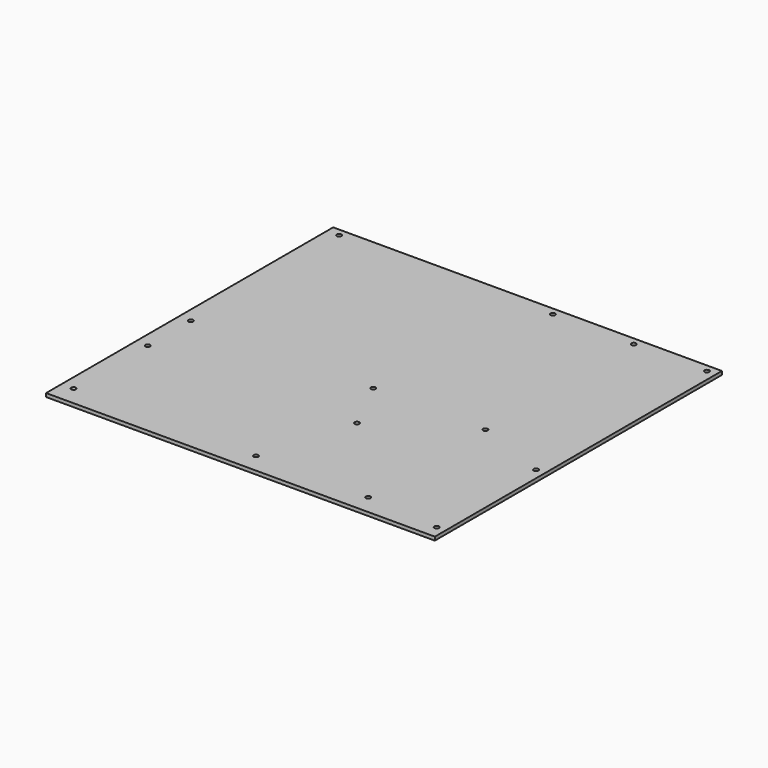
from build123d import *

# Parameters (mm, degrees)
F0_W     = 330.2
F0_H     = 304.8
F0_R     = 1.9812
F0_R_2   = 1.981
F1_DEPTH = 3


with BuildPart() as f1:
    # F0 (on Top) → F1 (new body)
    with BuildSketch(Plane.XY):
        with Locations((0, 4.9992)):
            Rectangle(F0_W, F0_H)
        with Locations((-154.9, -130.9008)):
            Circle(F0_R, mode=Mode.SUBTRACT)
        with Locations((-154.9, -52.2008)):
            Circle(F0_R_2, mode=Mode.SUBTRACT)
        with Locations((-154.9, -6.4008)):
            Circle(F0_R_2, mode=Mode.SUBTRACT)
        with Locations((0, -130.9008)):
            Circle(F0_R_2, mode=Mode.SUBTRACT)
        with Locations((95.3, -130.9008)):
            Circle(F0_R_2, mode=Mode.SUBTRACT)
        with Locations((157.5, -136.0008)):
            Circle(F0_R_2, mode=Mode.SUBTRACT)
        with Locations((22.9, -52.2008)):
            Circle(F0_R_2, mode=Mode.SUBTRACT)
        with Locations((0, -6.4008)):
            Circle(F0_R_2, mode=Mode.SUBTRACT)
        with Locations((95.3, -6.4008)):
            Circle(F0_R_2, mode=Mode.SUBTRACT)
        with Locations((157.5, -30.464708)):
            Circle(F0_R_2, mode=Mode.SUBTRACT)
        with Locations((-154.9, 150.9992)):
            Circle(F0_R_2, mode=Mode.SUBTRACT)
        with Locations((26.7, 150.9992)):
            Circle(F0_R_2, mode=Mode.SUBTRACT)
        with Locations((95.3, 150.9992)):
            Circle(F0_R_2, mode=Mode.SUBTRACT)
        with Locations((157.5, 150.9992)):
            Circle(F0_R_2, mode=Mode.SUBTRACT)
    extrude(amount=-F1_DEPTH)


solid = f1.part
